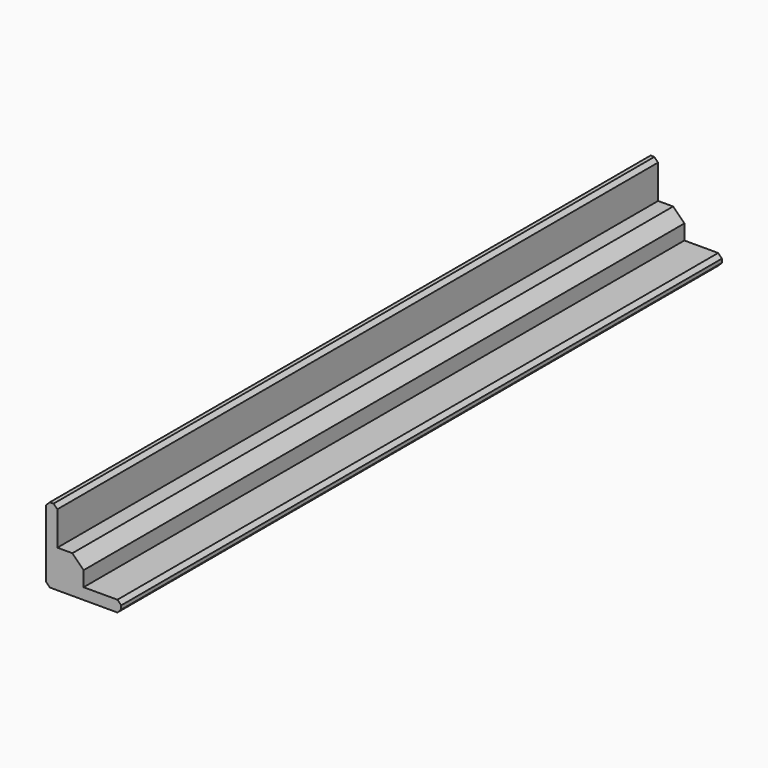
from build123d import *

# Parameters (mm, degrees)
F1_DEPTH = 200
F2_SIZE  = 1
F3_SIZE  = 3


with BuildPart() as f1:
    # F0 (on Front) → F1 (new body)
    with BuildSketch(Plane.XZ):
        Polygon((0, 20), (0, 0), (20, 0), (20, 3), (10, 3), (10, 10), (3, 10), (3, 20), align=None)
    extrude(amount=F1_DEPTH)

    # F2
    f2_edges = [f1.edges().sort_by_distance(p)[0] for p in [
        (0, -100, 20),
        (3, -100, 20),
        (20, -100, 3),
        (20, -100, 0),
        (0, -100, 0),
    ]]
    chamfer(f2_edges, length=F2_SIZE)

    # F3
    f3_edges = [f1.edges().sort_by_distance(p)[0] for p in [
        (10, -100, 10),
    ]]
    chamfer(f3_edges, length=F3_SIZE)


solid = f1.part
